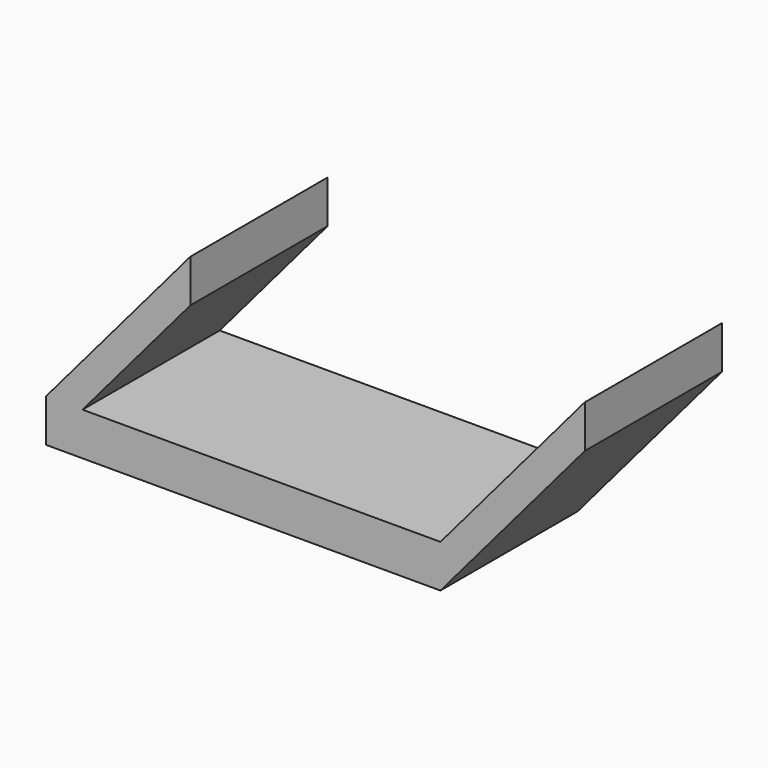
from build123d import *

# Parameters (mm, degrees)
F1_DEPTH = 20


with BuildPart() as f1:
    # F0 (on Front) → F1 (new body)
    with BuildSketch(Plane.XZ):
        Polygon((-46, -5), (-41.750403, 0), (-46, 0), align=None)
        Polygon((0, -5), (0, 0), (-41.750403, 0), (-46, -5), align=None)
        Polygon((-46, 0), (-41.750403, 0), (-29.162069, 14.811211), (-29.162069, 19.811211), align=None)
        Polygon((16.837931, 19.811211), (0, 0), (0, -5), (16.837931, 14.811211), align=None)
    extrude(amount=F1_DEPTH)


solid = f1.part
